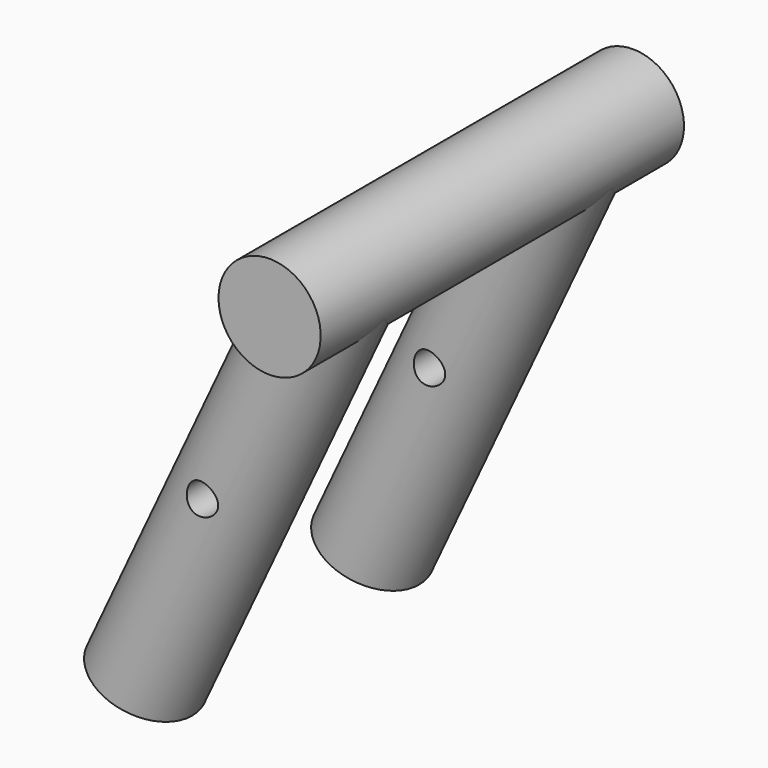
from build123d import *

# Parameters (mm, degrees)
SKETCH005_AS_DRAWN_R                                = 2.75
EXTRUDE_SKETCH005001_DEPTH                          = 90
EXTRUDE_SKETCH005001_ONTO_SKETCH005_ROLL_ANGLE      = 90
EXTRUDE_SKETCH005001_ONTO_SKETCH005_PLACEMENT_ANGLE = 180
CYLINDER_R                                          = 9
CYLINDER_DEPTH                                      = 80
CYLINDER001_R                                       = 9
CYLINDER001_DEPTH                                   = 80
CYLINDER001_ROLL_ANGLE                              = 90
CLONE006_PLACEMENT_ANGLE                            = 25


with BuildPart() as clone_of_sketch005_extrude001:
    # Sketch005 as drawn → Extrude_Sketch005001 (new)
    with BuildSketch(Plane.XY):
        with Locations((-90, 54)):
            Circle(SKETCH005_AS_DRAWN_R)
    extrude(amount=-EXTRUDE_SKETCH005001_DEPTH)


with BuildPart() as clone_of_sketch005_extrude001_1:
    # Extrude_Sketch005001 onto Sketch005 roll: moved
    add(clone_of_sketch005_extrude001.part.rotate(Axis((0, 0, 0), (1, 0, 0)), EXTRUDE_SKETCH005001_ONTO_SKETCH005_ROLL_ANGLE))


with BuildPart() as clone_of_sketch005_extrude001_2:
    # Extrude_Sketch005001 onto Sketch005 placement: moved
    add(clone_of_sketch005_extrude001_1.part.moved(Location((0, 111, 0))).rotate(Axis((0, 111, 0), (0, 0, 1)), EXTRUDE_SKETCH005001_ONTO_SKETCH005_PLACEMENT_ANGLE))


with BuildPart() as cilindro:
    # Cylinder → Cylinder (new body)
    with BuildSketch(Plane(origin=(76.968275, 45, 32), x_dir=(1, 0, 0), z_dir=(0, 0, 1))):
        Circle(CYLINDER_R)
    extrude(amount=CYLINDER_DEPTH)


with BuildPart() as clone_of_cilindro:
    # Clone003 base: copy of Cilindro
    add(cilindro.part)


with BuildPart() as clone_of_cilindro_1:
    # Clone003 placement: moved
    add(clone_of_cilindro.part.moved(Location((0, 50, 0))))


with BuildPart() as clone_of_cut004:
    # Cylinder001 → Cylinder001 (new body)
    with BuildSketch(Plane.XY):
        Circle(CYLINDER001_R)
    extrude(amount=CYLINDER001_DEPTH)


with BuildPart() as clone_of_cut004_1:
    # Cylinder001 roll: moved
    add(clone_of_cut004.part.rotate(Axis((0, 0, 0), (1, 0, 0)), CYLINDER001_ROLL_ANGLE))


with BuildPart() as clone_of_cut004_2:
    # Cylinder001 placement: moved
    add(clone_of_cut004_1.part.moved(Location((76.9683, 110, 112))))

    # Fusion: union Clone of Cilindro, Cilindro
    add(clone_of_cilindro_1.part)
    add(cilindro.part)


with BuildPart() as clone_of_cut004_3:
    # Fusion placement: moved
    add(clone_of_cut004_2.part.moved(Location((13.0317, 0, -18))))

    # Cut003: cut Clone of Sketch005_Extrude001
    add(clone_of_sketch005_extrude001_2.part, mode=Mode.SUBTRACT)


with BuildPart() as clone_of_cut004_4:
    # Clone006 placement: moved
    add(clone_of_cut004_3.part.moved(Location((-14, 0, 43))).rotate(Axis((-14, 0, 43), (0, 1, 0)), CLONE006_PLACEMENT_ANGLE))


solid = clone_of_cut004_4.part
